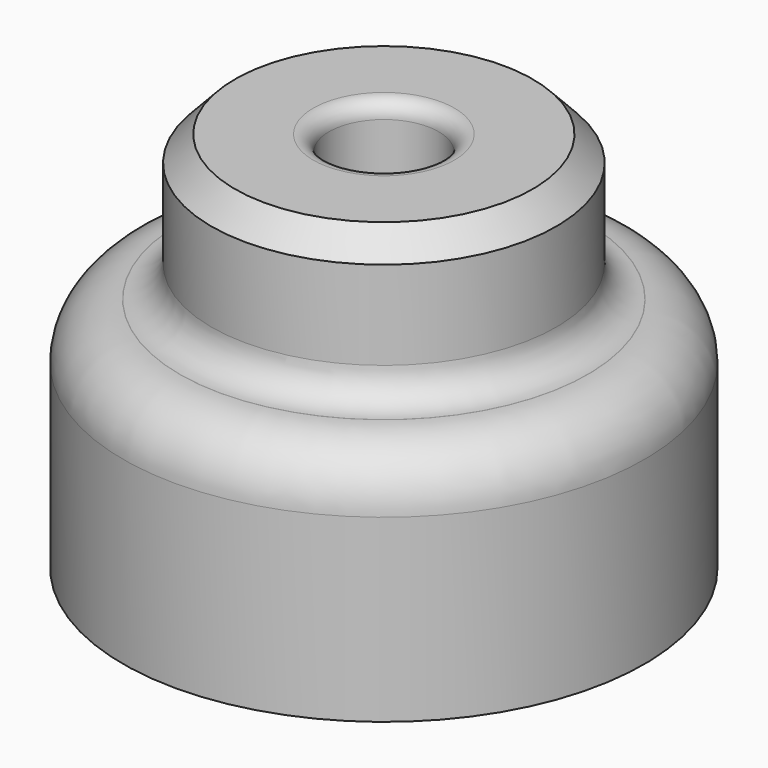
from build123d import *


with BuildPart() as f1:
    # F0 (on Right) → F1 (revolve)
    with BuildSketch(Plane.YZ):
        with BuildLine():
            ThreePointArc((-1.143, 0), (-0.963395, 0.074395), (-0.889, 0.254))
            Line((-0.889, 0.254), (-0.889, 5.931143))
            ThreePointArc((-0.889, 5.931143), (-0.963395, 6.110748), (-1.143, 6.185143))
            Line((-1.143, 6.185143), (-2.412197, 6.185143))
            Line((-2.412197, 6.185143), (-2.794, 5.777119))
            Line((-2.794, 5.777119), (-2.794, 4.340756))
            ThreePointArc((-2.794, 4.340756), (-2.94279, 3.981545), (-3.302, 3.832756))
            Line((-3.302, 3.832756), (-3.30708, 3.832756))
            ThreePointArc((-3.30708, 3.832756), (-3.953658, 3.564934), (-4.22148, 2.918356))
            Line((-4.22148, 2.918356), (-4.22148, 0))
            Line((-4.22148, 0), (-1.143, 0))
        make_face()
    revolve(axis=Axis((0, 0, 3.175), (0, 0, 1)))


solid = f1.part
